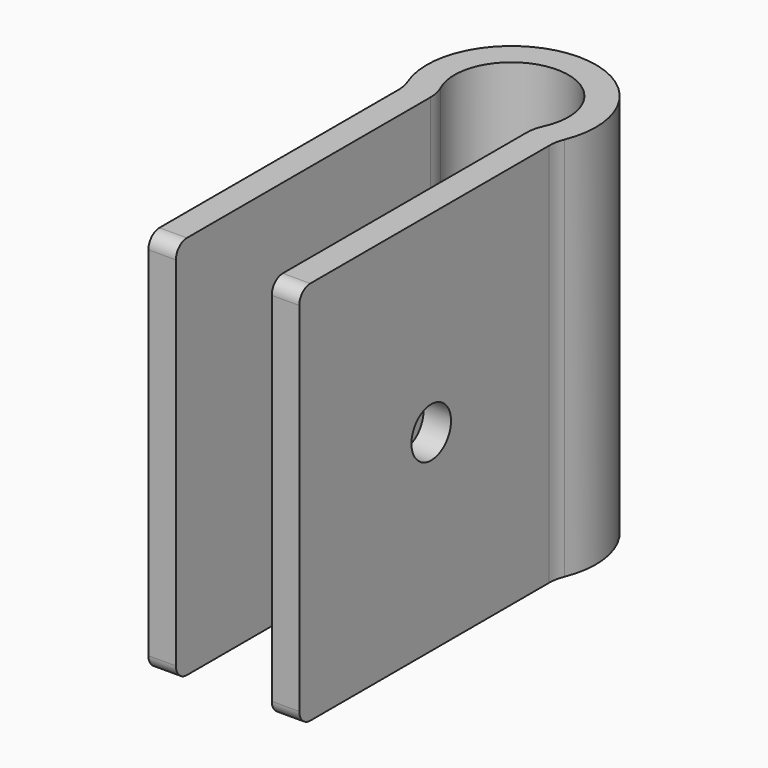
from build123d import *

# Parameters (mm, degrees)
PAD_DEPTH         = 28
SKETCH001_R       = 1.8
POCKET_DEPTH      = 6.151
POCKET_DEPTH_BACK = -6.151
FILLET_R          = 3
FILLET001_R       = 1


with BuildPart() as part:
    # Sketch → Pad (new body)
    with BuildSketch(Plane.XY):
        with BuildLine():
            ThreePointArc((3.487119, 0), (0, 6.4), (-3.487119, 0))
            Line((-3.487119, -23.9), (-3.487119, 0))
            Line((-5.487119, -23.9), (-3.487119, -23.9))
            Line((-5.487119, -0.527413), (-5.487119, -23.9))
            ThreePointArc((5.487119, -0.527413), (0, 8.4), (-5.487119, -0.527413))
            Line((5.487119, -23.9), (5.487119, -0.527413))
            Line((3.487119, -23.9), (5.487119, -23.9))
            Line((3.487119, 0), (3.487119, -23.9))
        make_face()
    extrude(amount=PAD_DEPTH)

    # Sketch001 → Pocket (cut, two sides)
    with BuildSketch(Plane.YZ) as pocket_sk:
        with Locations((-11.9, 14)):
            Circle(SKETCH001_R)
    extrude(amount=-POCKET_DEPTH, mode=Mode.SUBTRACT)
    extrude(pocket_sk.sketch, amount=-POCKET_DEPTH_BACK, mode=Mode.SUBTRACT)

    # Fillet
    fillet_edges = [part.edges().sort_by_distance(p)[0] for p in [
        (3.487119, 0, 14),
        (-3.487119, 0, 14),
        (5.487119, -0.527413, 14),
        (-5.487119, -0.527413, 14),
    ]]
    fillet(fillet_edges, radius=FILLET_R)

    # Fillet001
    fillet001_edges = [part.edges().sort_by_distance(p)[0] for p in [
        (4.487119, -23.9, 28),
        (-4.487119, -23.9, 28),
        (-4.487119, -23.9, 0),
        (4.487119, -23.9, 0),
    ]]
    fillet(fillet001_edges, radius=FILLET001_R)


solid = part.part
